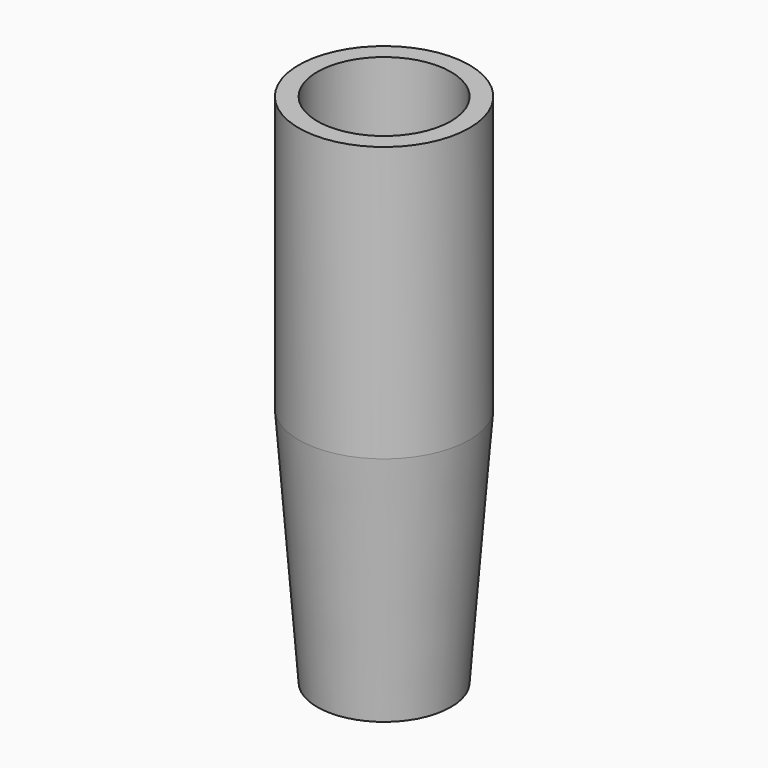
from build123d import *

# Parameters (mm, degrees)
CYLINDER001_R     = 1.8
CYLINDER001_DEPTH = 7.4
CYLINDER_R        = 2.3
CYLINDER_DEPTH    = 7.4


with BuildPart() as cone001:
    # Cone001 → Cone001 (revolve)
    with BuildSketch(Plane(origin=(0, 0, -6.5), x_dir=(1, 0, 0), z_dir=(0, -1, 0))):
        Polygon((0, 0), (1.3, 0), (1.8, 6.5), (0, 6.5), align=None)
    revolve(axis=Axis((0, 0, -6.5), (0, 0, 1)))


with BuildPart() as inner_fusion:
    # Cylinder001 → Cylinder001 (new body)
    with BuildSketch(Plane.XY):
        Circle(CYLINDER001_R)
    extrude(amount=CYLINDER001_DEPTH)

    # Fusion001: union Cone001
    add(cone001.part)


with BuildPart() as cone:
    # Cone → Cone (revolve)
    with BuildSketch(Plane(origin=(0, 0, -6.5), x_dir=(1, 0, 0), z_dir=(0, -1, 0))):
        Polygon((0, 0), (1.8, 0), (2.3, 6.5), (0, 6.5), align=None)
    revolve(axis=Axis((0, 0, -6.5), (0, 0, 1)))


with BuildPart() as obj1:
    # Cylinder → Cylinder (new body)
    with BuildSketch(Plane.XY):
        Circle(CYLINDER_R)
    extrude(amount=CYLINDER_DEPTH)

    # Fusion: union Cone
    add(cone.part)

    # Cut: cut inner fusion
    add(inner_fusion.part, mode=Mode.SUBTRACT)


solid = obj1.part
